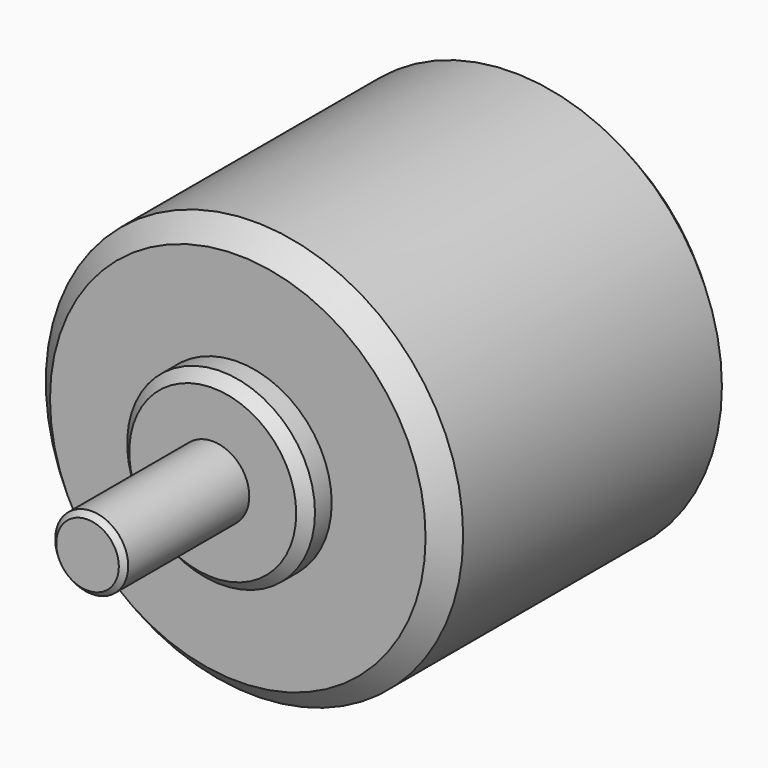
from build123d import *

# Parameters (mm, degrees)
F0_R     = 20
F1_DEPTH = 17.5
F2_SIZE  = 2
F3_R     = 9
F4_DEPTH = 3
F5_R     = 3.5
F6_DEPTH = 15
F7_SIZE  = 0.5
F8_SIZE  = 1


with BuildPart() as f1:
    # F0 (on Front) → F1 (new body, symmetric)
    with BuildSketch(Plane.XZ):
        Circle(F0_R)
    extrude(amount=F1_DEPTH, both=True)

    # F2
    f2_edges = [f1.edges().sort_by_distance(p)[0] for p in [
        (-20, 17.5, 0),
        (-20, -17.5, 0),
    ]]
    chamfer(f2_edges, length=F2_SIZE)

    # F3 (on face) → F4 (join)
    with BuildSketch(Plane.XZ.offset(17.5)):
        Circle(F3_R)
    extrude(amount=F4_DEPTH)

    # F8
    f8_edges = [f1.edges().sort_by_distance(p)[0] for p in [
        (-9, -20.5, 0),
    ]]
    chamfer(f8_edges, length=F8_SIZE)


with BuildPart() as f6:
    # F5 (on face) → F6 (new body)
    with BuildSketch(Plane.XZ.offset(20.5)):
        Circle(F5_R)
    extrude(amount=F6_DEPTH)

    # F7
    f7_edges = [f6.edges().sort_by_distance(p)[0] for p in [
        (-3.5, -35.5, 0),
    ]]
    chamfer(f7_edges, length=F7_SIZE)


solid = Compound([f1.part, f6.part])
